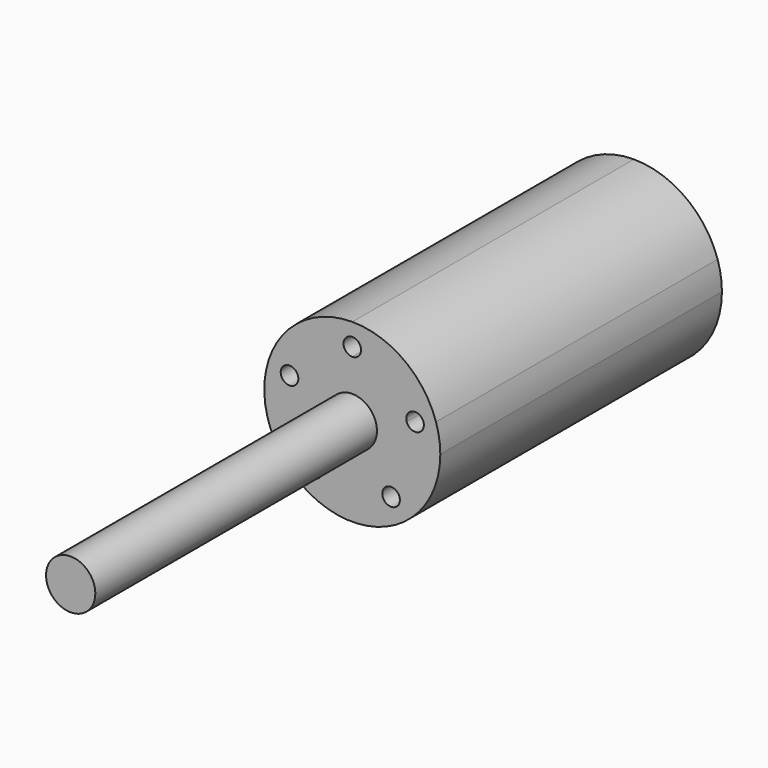
from build123d import *

# Parameters (mm, degrees)
F0_R     = 3.5
F1_DEPTH = 100
F3_DEPTH = 50


with BuildPart() as f1:
    # F0 (on Front) → F1 (new body)
    with BuildSketch(Plane.XZ):
        Circle(F0_R)
    extrude(amount=F1_DEPTH)

    # F2 (on Front) → F3 (join)
    with BuildSketch(Plane.XZ):
        with BuildLine():
            ThreePointArc((7.347316, -10.112712), (11.137582, -5.674881), (12.5, 0))
            ThreePointArc((12.5, 0), (12.346104, 1.955431), (11.888206, 3.862712))
            ThreePointArc((11.888206, 3.862712), (7.347316, 10.112712), (0, 12.5))
            ThreePointArc((0, 12.5), (-7.347316, 10.112712), (-11.888206, 3.862712))
            ThreePointArc((-11.888206, 3.862712), (-11.888206, -3.862712), (-7.347316, -10.112712))
            ThreePointArc((-7.347316, -10.112712), (0, -12.5), (7.347316, -10.112712))
        make_face()
        with BuildLine():
            ThreePointArc((-4.260487, -7.584534), (-4.942999, -8.698292), (-6.245218, -8.595806))
            ThreePointArc((-6.245218, -8.595806), (-6.521758, -6.849803), (-4.775755, -6.573263))
            ThreePointArc((-4.775755, -6.573263), (-4.396729, -7.017046), (-4.260487, -7.584534))
        make_face(mode=Mode.SUBTRACT)
        with BuildLine():
            ThreePointArc((6.760487, -7.584534), (6.624245, -8.152022), (6.245218, -8.595806))
            ThreePointArc((6.245218, -8.595806), (4.499215, -8.319266), (4.775755, -6.573263))
            ThreePointArc((4.775755, -6.573263), (6.077975, -6.470776), (6.760487, -7.584534))
        make_face(mode=Mode.SUBTRACT)
        with BuildLine():
            ThreePointArc((-7.727334, 2.510763), (-9.302426, 1.708214), (-10.104975, 3.283306))
            ThreePointArc((-10.104975, 3.283306), (-8.720612, 4.131645), (-7.666155, 2.897034))
            ThreePointArc((-7.666155, 2.897034), (-7.681544, 2.701491), (-7.727334, 2.510763))
        make_face(mode=Mode.SUBTRACT)
        with BuildLine():
            ThreePointArc((7.727334, 2.510763), (8.529884, 4.085855), (10.104975, 3.283306))
            ThreePointArc((10.104975, 3.283306), (10.150765, 3.092577), (10.166155, 2.897034))
            ThreePointArc((10.166155, 2.897034), (9.111698, 1.662424), (7.727334, 2.510763))
        make_face(mode=Mode.SUBTRACT)
        with BuildLine():
            ThreePointArc((0, 8.125), (-1.25, 9.375), (0, 10.625))
            ThreePointArc((0, 10.625), (0.883883, 10.258883), (1.25, 9.375))
            ThreePointArc((1.25, 9.375), (0.883883, 8.491117), (0, 8.125))
        make_face(mode=Mode.SUBTRACT)
    extrude(amount=F3_DEPTH)


solid = f1.part
